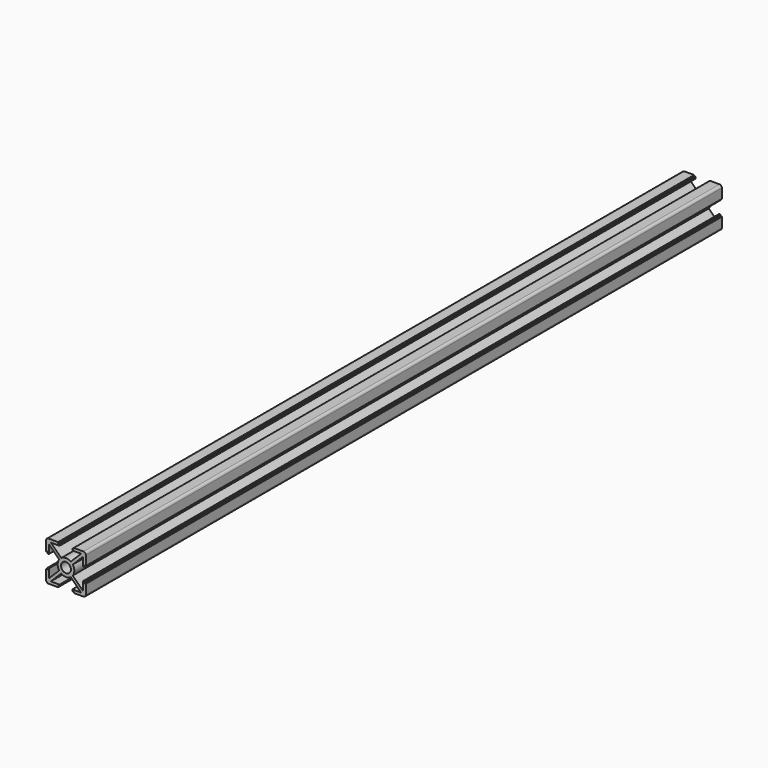
from build123d import *

# Parameters (mm, degrees)
F0_R     = 2.5
F1_DEPTH = 400


with BuildPart() as f1:
    # F0 (on Front) → F1 (new body)
    with BuildSketch(Plane.XZ):
        with BuildLine():
            Line((-50.15593, 47.812752), (-44.979215, 42.636037))
            ThreePointArc((-44.979215, 42.636037), (-45.75593, 40.202701), (-44.979215, 37.769366))
            Line((-44.979215, 37.769366), (-50.15593, 32.592651))
            Line((-50.15593, 32.592651), (-50.15593, 37.002701))
            Line((-50.15593, 37.002701), (-50.949922, 37.002701))
            Line((-50.949922, 37.002701), (-50.949922, 36.252701))
            Line((-50.949922, 36.252701), (-51.55593, 36.252701))
            Line((-51.55593, 36.252701), (-51.55593, 31.402701))
            ThreePointArc((-51.55593, 31.402701), (-51.204458, 30.554173), (-50.35593, 30.202701))
            Line((-50.35593, 30.202701), (-45.50593, 30.202701))
            Line((-45.50593, 30.202701), (-45.50593, 30.808709))
            Line((-45.50593, 30.808709), (-44.75593, 30.808709))
            Line((-44.75593, 30.808709), (-44.75593, 31.602701))
            Line((-44.75593, 31.602701), (-49.16598, 31.602701))
            Line((-49.16598, 31.602701), (-43.989265, 36.779416))
            ThreePointArc((-43.989265, 36.779416), (-41.55593, 36.002701), (-39.122595, 36.779416))
            Line((-39.122595, 36.779416), (-33.945879, 31.602701))
            Line((-33.945879, 31.602701), (-38.35593, 31.602701))
            Line((-38.35593, 31.602701), (-38.35593, 30.808709))
            Line((-38.35593, 30.808709), (-37.60593, 30.808709))
            Line((-37.60593, 30.808709), (-37.60593, 30.202701))
            Line((-37.60593, 30.202701), (-32.75593, 30.202701))
            ThreePointArc((-32.75593, 30.202701), (-31.907402, 30.554173), (-31.55593, 31.402701))
            Line((-31.55593, 31.402701), (-31.55593, 36.252701))
            Line((-31.55593, 36.252701), (-32.161938, 36.252701))
            Line((-32.161938, 36.252701), (-32.161938, 37.002701))
            Line((-32.161938, 37.002701), (-32.95593, 37.002701))
            Line((-32.95593, 37.002701), (-32.95593, 32.592651))
            Line((-32.95593, 32.592651), (-38.132645, 37.769366))
            ThreePointArc((-38.132645, 37.769366), (-37.35593, 40.202701), (-38.132645, 42.636037))
            Line((-38.132645, 42.636037), (-32.95593, 47.812752))
            Line((-32.95593, 47.812752), (-32.95593, 43.402701))
            Line((-32.95593, 43.402701), (-32.161938, 43.402701))
            Line((-32.161938, 43.402701), (-32.161938, 44.152701))
            Line((-32.161938, 44.152701), (-31.55593, 44.152701))
            Line((-31.55593, 44.152701), (-31.55593, 49.002701))
            ThreePointArc((-31.55593, 49.002701), (-31.907402, 49.851229), (-32.75593, 50.202701))
            Line((-32.75593, 50.202701), (-37.60593, 50.202701))
            Line((-37.60593, 50.202701), (-37.60593, 49.596693))
            Line((-37.60593, 49.596693), (-38.35593, 49.596693))
            Line((-38.35593, 49.596693), (-38.35593, 48.802701))
            Line((-38.35593, 48.802701), (-33.945879, 48.802701))
            Line((-33.945879, 48.802701), (-39.122595, 43.625986))
            ThreePointArc((-39.122595, 43.625986), (-41.55593, 44.402701), (-43.989265, 43.625986))
            Line((-43.989265, 43.625986), (-49.16598, 48.802701))
            Line((-49.16598, 48.802701), (-44.75593, 48.802701))
            Line((-44.75593, 48.802701), (-44.75593, 49.596693))
            Line((-44.75593, 49.596693), (-45.50593, 49.596693))
            Line((-45.50593, 49.596693), (-45.50593, 50.202701))
            Line((-45.50593, 50.202701), (-50.35593, 50.202701))
            ThreePointArc((-50.35593, 50.202701), (-51.204458, 49.851229), (-51.55593, 49.002701))
            Line((-51.55593, 49.002701), (-51.55593, 44.152701))
            Line((-51.55593, 44.152701), (-50.949922, 44.152701))
            Line((-50.949922, 44.152701), (-50.949922, 43.402701))
            Line((-50.949922, 43.402701), (-50.15593, 43.402701))
            Line((-50.15593, 43.402701), (-50.15593, 47.812752))
        make_face()
        with Locations((-41.55593, 40.202701)):
            Circle(F0_R, mode=Mode.SUBTRACT)
    extrude(amount=-F1_DEPTH)


solid = f1.part
